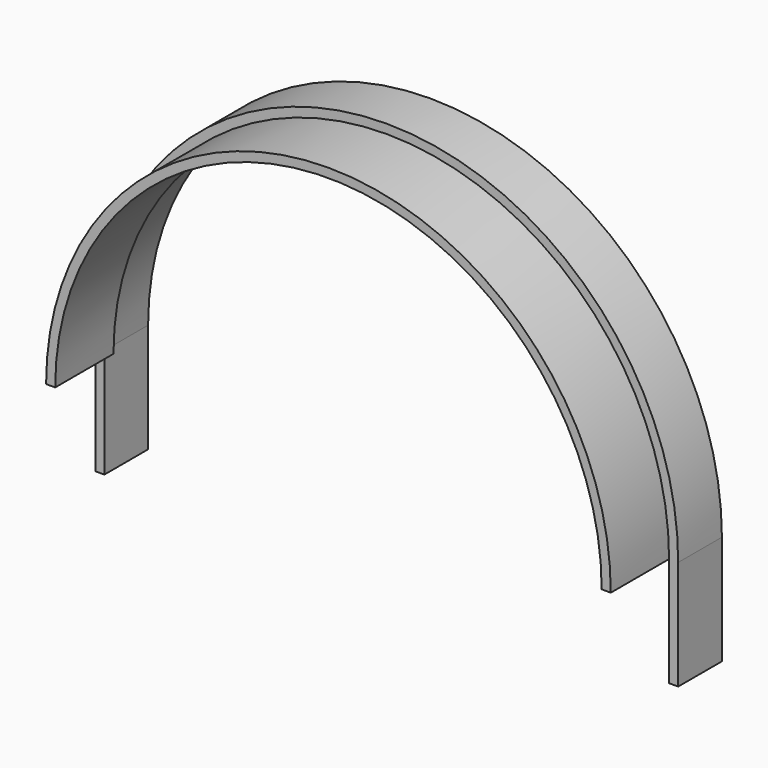
from build123d import *

# Parameters (mm, degrees)
F1_DEPTH  = 19.05
F3_DEPTH  = 25.4
F5_DEPTH  = 25.4
F6_W      = 3.175
F6_H      = 19.05
F7_DEPTH  = 38.1
F8_W      = 3.175
F8_H      = 19.05
F9_DEPTH  = 38.1
F10_DEPTH = 25.4


with BuildPart() as f1:
    # F0 (on Front) → F1 (new body)
    with BuildSketch(Plane.XZ):
        with BuildLine():
            Line((-101.6, 0), (101.6, 0))
            ThreePointArc((101.6, 0), (0, 101.6), (-101.6, 0))
        make_face()
    extrude(amount=F1_DEPTH)

    # F2 (on face) → F3 (cut)
    with BuildSketch(Plane.XZ.offset(19.05)):
        with BuildLine():
            Line((-95.25, 0), (95.25, 0))
            ThreePointArc((95.25, 0), (0, 95.25), (-95.25, 0))
        make_face()
    extrude(amount=-F3_DEPTH, mode=Mode.SUBTRACT)

    # F4 (on face) → F5 (cut)
    with BuildSketch(Plane.XZ.offset(19.05)):
        with BuildLine():
            Line((95.25, 0), (98.425, 0))
            ThreePointArc((98.425, 0), (0, 98.425), (-98.425, 0))
            Line((-98.425, 0), (-95.25, 0))
            ThreePointArc((-95.25, 0), (0, 95.25), (95.25, 0))
        make_face()
    extrude(amount=-F5_DEPTH, mode=Mode.SUBTRACT)

    # F6 (on face) → F7 (join)
    with BuildSketch(Plane(origin=(0, 0, 0), x_dir=(1, 0, 0), z_dir=(0, 0, -1))):
        with Locations((-100.0125, 9.525)):
            Rectangle(F6_W, F6_H)
    extrude(amount=F7_DEPTH)

    # F8 (on face) → F9 (join)
    with BuildSketch(Plane(origin=(0, 0, 0), x_dir=(1, 0, 0), z_dir=(0, 0, -1))):
        with Locations((100.0125, 9.525)):
            Rectangle(F8_W, F8_H)
    extrude(amount=F9_DEPTH)

    # F4 (on face) → F10 (join)
    with BuildSketch(Plane.XZ.offset(19.05)):
        with BuildLine():
            Line((95.25, 0), (98.425, 0))
            ThreePointArc((98.425, 0), (0, 98.425), (-98.425, 0))
            Line((-98.425, 0), (-95.25, 0))
            ThreePointArc((-95.25, 0), (0, 95.25), (95.25, 0))
        make_face()
    extrude(amount=F10_DEPTH)


solid = f1.part
